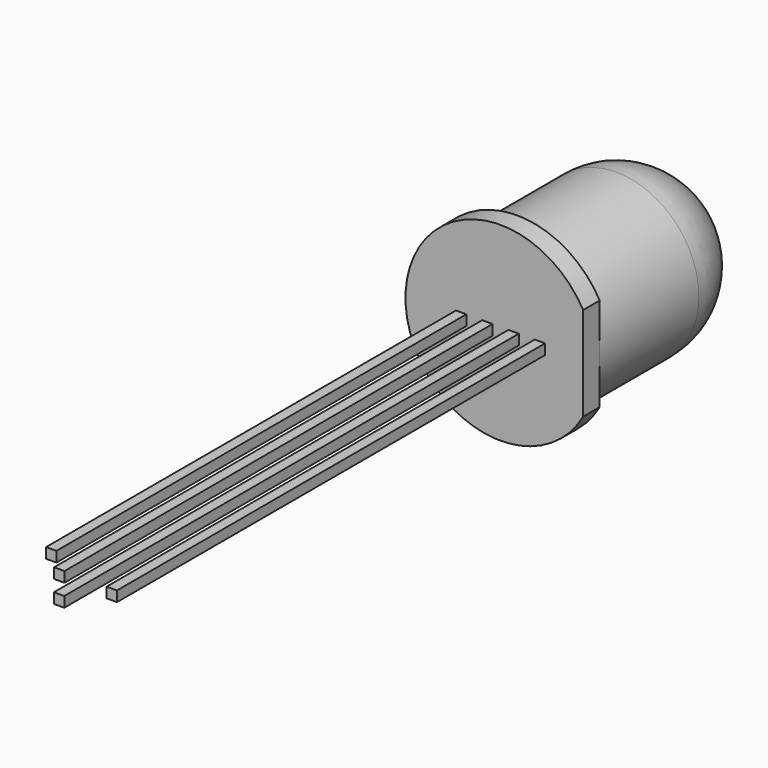
from build123d import *

# Parameters (mm, degrees)
SKETCH001_W     = 0.5
SKETCH001_H     = 0.5
PAD_DEPTH       = 27.5
SKETCH002_W     = 1
SKETCH002_H     = 6.098212
POCKET_DEPTH    = 5
SKETCH003_W     = 0.5
SKETCH003_H     = 0.5
POCKET001_DEPTH = 2.7
SKETCH004_W     = 0.5
SKETCH004_H     = 0.5
POCKET002_DEPTH = 1.6


with BuildPart() as part:
    # Sketch → Revolution (revolve)
    with BuildSketch(Plane.XY):
        with BuildLine():
            ThreePointArc((4, 7), (2.828427, 9.828427), (0, 11))
            Line((0, 0), (0, 11))
            Line((4.6, 0), (0, 0))
            Line((4.6, 1), (4.6, 0))
            Line((4, 1), (4.6, 1))
            Line((4, 7), (4, 1))
        make_face()
    revolve(axis=Axis((0, 0, 0), (0, 1, 0)))

    # Sketch001 (on Face2 of Revolution) → Pad (new body)
    with BuildSketch(Plane.XZ):
        with Locations((0.635, 0)):
            Rectangle(SKETCH001_W, SKETCH001_H)
        with Locations((1.905, 0)):
            Rectangle(SKETCH001_W, SKETCH001_H)
        with Locations((-0.635, 0)):
            Rectangle(SKETCH001_W, SKETCH001_H)
        with Locations((-1.905, 0)):
            Rectangle(SKETCH001_W, SKETCH001_H)
    extrude(amount=PAD_DEPTH)

    # Sketch002 (on Face5 of Pad) → Pocket (cut)
    with BuildSketch(Plane.XZ):
        with Locations((4.5, 0)):
            Rectangle(SKETCH002_W, SKETCH002_H)
    extrude(amount=-POCKET_DEPTH, mode=Mode.SUBTRACT)

    # Sketch003 (on Face23 of Pocket) → Pocket001 (cut)
    with BuildSketch(Plane.XZ.offset(27.5)):
        with Locations((-1.905, 0)):
            Rectangle(SKETCH003_W, SKETCH003_H)
    extrude(amount=-POCKET001_DEPTH, mode=Mode.SUBTRACT)

    # Sketch004 (on Face24 of Pocket001) → Pocket002 (cut)
    with BuildSketch(Plane.XZ.offset(27.5)):
        with Locations((-0.635, 0)):
            Rectangle(SKETCH004_W, SKETCH004_H)
        with Locations((1.905, 0)):
            Rectangle(SKETCH004_W, SKETCH004_H)
    extrude(amount=-POCKET002_DEPTH, mode=Mode.SUBTRACT)


solid = part.part
